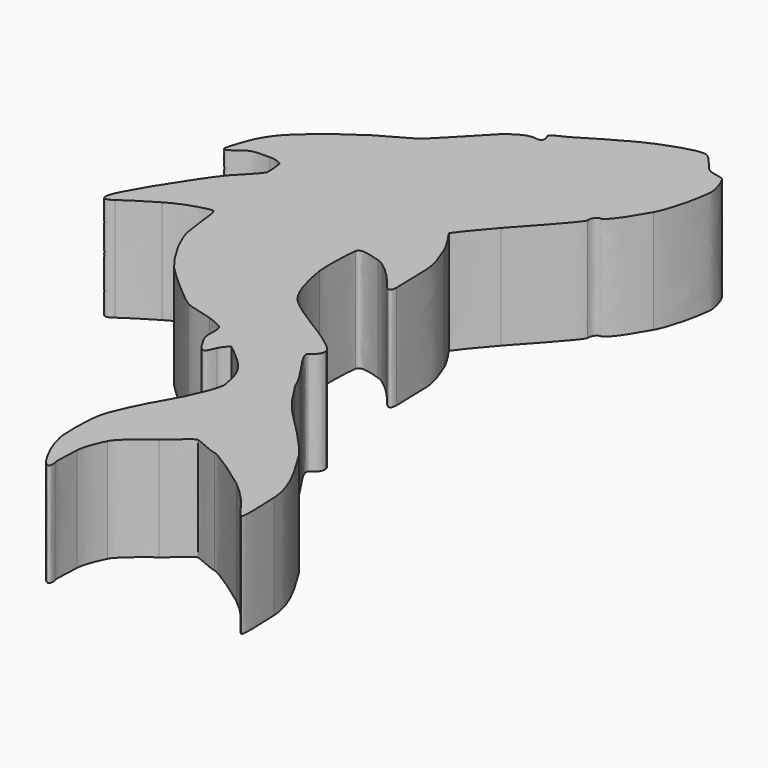
from build123d import *

# Parameters (mm, degrees)
F1_DEPTH = 19.05


with BuildPart() as f1:
    # F0 (on Top) → F1 (new body)
    with BuildSketch(Plane.XY):
        with BuildLine():
            add(Edge.make_bspline(
                [(18.0249788916, -25.616716717), (19.9896770478, -28.85172949), (21.6940117117, -31.1912228411), (23.1379828832, -32.6351981492)],
                knots=[0, 0, 0, 0, 1, 1, 1, 1], degree=3))
            add(Edge.make_bspline(
                [(15.1698617215, -20.6810356724), (15.9484013051, -21.8940572216), (17.5025490131, -24.0530838218), (18.0249788916, -25.616716717)],
                knots=[0, 0, 0, 0, 1, 1, 1, 1], degree=3))
            add(Edge.make_bspline(
                [(13.3497564808, -16.7814365534), (12.7426893356, -17.3013114018), (14.3905968569, -19.4683657328), (15.1698617215, -20.6810356724)],
                knots=[0, 0, 0, 0, 1, 1, 1, 1], degree=3))
            add(Edge.make_bspline(
                [(14.8221832138, -14.6154797961), (14.9097436665, -15.8277884741), (13.9564568488, -16.261561705), (13.3497564808, -16.7814365534)],
                knots=[0, 0, 0, 0, 1, 1, 1, 1], degree=3))
            add(Edge.make_bspline(
                [(10.9233135125, -11.0624616114), (11.6164767597, -11.6691619794), (14.734990917, -13.4028029622), (14.8221832138, -14.6154797961)],
                knots=[0, 0, 0, 0, 1, 1, 1, 1], degree=3))
            add(Edge.make_bspline(
                [(1.825338202, -4.8236118209), (3.9916631153, -7.076760875), (10.2294153322, -10.4557626222), (10.9233135125, -11.0624616114)],
                knots=[0, 0, 0, 0, 1, 1, 1, 1], degree=3))
            add(Edge.make_bspline(
                [(-1.4679259471, 4.2747247512), (-1.2081719114, 2.541813186), (-0.3417161289, -2.5704627668), (1.825338202, -4.8236118209)],
                knots=[0, 0, 0, 0, 1, 1, 1, 1], degree=3))
            add(Edge.make_bspline(
                [(-1.2946347906, 12.4205108175), (-1.5547542245, 11.2071059448), (-1.7280467598, 6.0080058512), (-1.4679259471, 4.2747247512)],
                knots=[0, 0, 0, 0, 1, 1, 1, 1], degree=3))
            add(Edge.make_bspline(
                [(2.9515480203, 12.2468556416), (1.6516802684, 12.5930753141), (-1.0348807549, 13.6331862726), (-1.2946347906, 12.4205108175)],
                knots=[0, 0, 0, 0, 1, 1, 1, 1], degree=3))
            add(Edge.make_bspline(
                [(8.410039509, 7.4815287789), (7.0237088781, 9.3877356372), (4.251048995, 11.9006414846), (2.9515480203, 12.2468556416)],
                knots=[0, 0, 0, 0, 1, 1, 1, 1], degree=3))
            add(Edge.make_bspline(
                [(10.4030705081, 7.2214107239), (10.3162408518, 5.7482545732), (9.7971009365, 5.575328815), (8.410039509, 7.4815287789)],
                knots=[0, 0, 0, 0, 1, 1, 1, 1], degree=3))
            add(Edge.make_bspline(
                [(10.2297779727, 13.6331862726), (10.2297779727, 10.6004055768), (10.4895347661, 8.694204234), (10.4030705081, 7.2214107239)],
                knots=[0, 0, 0, 0, 1, 1, 1, 1], degree=3))
            add(Edge.make_bspline(
                [(8.4100339936, 20.5652048257), (8.9302714825, 19.1788728159), (10.2297779727, 16.6659669685), (10.2297779727, 13.6331862726)],
                knots=[0, 0, 0, 0, 1, 1, 1, 1], degree=3))
            add(Edge.make_bspline(
                [(5.7242023879, 25.0707804105), (5.8974963021, 24.8106623555), (7.8905273012, 21.9515354567), (8.4100339936, 20.5652048257)],
                knots=[0, 0, 0, 0, 1, 1, 1, 1], degree=3))
            add(Edge.make_bspline(
                [(10.4895292506, 31.0502401848), (9.4501463309, 29.8368380698), (5.5509084737, 25.3308984656), (5.7242023879, 25.0707804105)],
                knots=[0, 0, 0, 0, 1, 1, 1, 1], degree=3))
            add(Edge.make_bspline(
                [(18.7214100401, 40.6684529841), (18.8078729193, 39.9752869792), (11.529273432, 32.2632782804), (10.4895292506, 31.0502401848)],
                knots=[0, 0, 0, 0, 1, 1, 1, 1], degree=3))
            add(Edge.make_bspline(
                [(19.9340854952, 42.3145376507), (19.1544593689, 42.3145376507), (18.634947161, 41.361618989), (18.7214100401, 40.6684529841)],
                knots=[0, 0, 0, 0, 1, 1, 1, 1], degree=3))
            add(Edge.make_bspline(
                [(24.5264852208, 48.5533874412), (22.8807659524, 45.5206081242), (20.7140783986, 42.3145376507), (19.9340854952, 42.3145376507)],
                knots=[0, 0, 0, 0, 1, 1, 1, 1], degree=3))
            add(Edge.make_bspline(
                [(27.1254871703, 58.6046454327), (27.1254871703, 57.4780702162), (26.1729352857, 51.5861653793), (24.5264852208, 48.5533874412)],
                knots=[0, 0, 0, 0, 1, 1, 1, 1], degree=3))
            add(Edge.make_bspline(
                [(25.6534216989, 62.8501002047), (26.260122067, 62.4170536337), (27.1254871703, 59.731222028), (27.1254871703, 58.6046454327)],
                knots=[0, 0, 0, 0, 1, 1, 1, 1], degree=3))
            add(Edge.make_bspline(
                [(22.2736974284, 64.1499665777), (23.226617469, 63.1098542404), (25.0467227097, 63.2835107952), (25.6534216989, 62.8501002047)],
                knots=[0, 0, 0, 0, 1, 1, 1, 1], degree=3))
            add(Edge.make_bspline(
                [(19.5006735259, 67.1823818753), (20.5411526404, 66.4892172493), (21.320417505, 65.1897148957), (22.2736974284, 64.1499665777)],
                knots=[0, 0, 0, 0, 1, 1, 1, 1], degree=3))
            add(Edge.make_bspline(
                [(11.5289107915, 65.3630060522), (15.1687586325, 66.8357995623), (18.4616587622, 67.8755465014), (19.5006735259, 67.1823818753)],
                knots=[0, 0, 0, 0, 1, 1, 1, 1], degree=3))
            add(Edge.make_bspline(
                [(0.4382685014, 59.2109831602), (1.5648437179, 59.8173208878), (7.8897923681, 63.8902125421), (11.5289107915, 65.3630060522)],
                knots=[0, 0, 0, 0, 1, 1, 1, 1], degree=3))
            add(Edge.make_bspline(
                [(-2.0742719478, 57.3044150403), (-2.5080493153, 57.9975796664), (-0.6886734922, 58.6042814133), (0.4382685014, 59.2109831602)],
                knots=[0, 0, 0, 0, 1, 1, 1, 1], degree=3))
            add(Edge.make_bspline(
                [(-3.1143842851, 55.9180844093), (-1.7287844507, 55.6579649754), (-1.6412253768, 56.6112504143), (-2.0742719478, 57.3044150403)],
                knots=[0, 0, 0, 0, 1, 1, 1, 1], degree=3))
            add(Edge.make_bspline(
                [(-7.8800751672, 53.6652979958), (-6.3200879815, 55.0516286268), (-4.500348139, 56.1782038432), (-3.1143842851, 55.9180844093)],
                knots=[0, 0, 0, 0, 1, 1, 1, 1], degree=3))
            add(Edge.make_bspline(
                [(-16.3720767695, 45.1736604129), (-14.6387998061, 46.29987161), (-9.4396969547, 52.2793313842), (-7.8800751672, 53.6652979958)],
                knots=[0, 0, 0, 0, 1, 1, 1, 1], degree=3))
            add(Edge.make_bspline(
                [(-22.0042248131, 41.9672245412), (-19.4913175868, 43.5268435709), (-18.1046229364, 44.0474505947), (-16.3720767695, 45.1736604129)],
                knots=[0, 0, 0, 0, 1, 1, 1, 1], degree=3))
            add(Edge.make_bspline(
                [(-32.7486474306, 33.1290060241), (-30.8424433301, 35.7283747507), (-24.5171306605, 40.4076055114), (-22.0042248131, 41.9672245412)],
                knots=[0, 0, 0, 0, 1, 1, 1, 1], degree=3))
            add(Edge.make_bspline(
                [(-35.6945984702, 26.8901562337), (-34.8281426876, 29.4030620811), (-34.6544861329, 30.5296359187), (-32.7486474306, 33.1290060241)],
                knots=[0, 0, 0, 0, 1, 1, 1, 1], degree=3))
            add(Edge.make_bspline(
                [(-33.6151032132, 26.630402198), (-35.0878967233, 25.4173641024), (-36.561419651, 24.3772503862), (-35.6945984702, 26.8901562337)],
                knots=[0, 0, 0, 0, 1, 1, 1, 1], degree=3))
            add(Edge.make_bspline(
                [(-29.1091663667, 27.4972233788), (-30.3222044623, 27.4103951015), (-32.1423097031, 27.8434402936), (-33.6151032132, 26.630402198)],
                knots=[0, 0, 0, 0, 1, 1, 1, 1], degree=3))
            add(Edge.make_bspline(
                [(-26.7695502969, 26.8036933545), (-27.5203568424, 27.3239308435), (-28.300228406, 27.5551079779), (-29.1091663667, 27.4972233788)],
                knots=[0, 0, 0, 0, 1, 1, 1, 1], degree=3))
            add(Edge.make_bspline(
                [(-26.5097948824, 23.7709140375), (-26.452152963, 24.2909102258), (-26.5387385608, 25.3018362051), (-26.7695502969, 26.8036933545)],
                knots=[0, 0, 0, 0, 1, 1, 1, 1], degree=3))
            add(Edge.make_bspline(
                [(-30.1500067428, 19.5247312267), (-28.4167297794, 21.430569929), (-26.5966245387, 22.9912865324), (-26.5097948824, 23.7709140375)],
                knots=[0, 0, 0, 0, 1, 1, 1, 1], degree=3))
            add(Edge.make_bspline(
                [(-39.0746895179, 5.747530671), (-37.0820211594, 9.6467685283), (-31.8832837062, 17.6185312628), (-30.1500067428, 19.5247312267)],
                knots=[0, 0, 0, 0, 1, 1, 1, 1], degree=3))
            add(Edge.make_bspline(
                [(-38.2082323564, 3.2346248236), (-39.1615164164, 2.4546319202), (-41.0673564975, 1.8482928138), (-39.0746895179, 5.747530671)],
                knots=[0, 0, 0, 0, 1, 1, 1, 1], degree=3))
            add(Edge.make_bspline(
                [(-32.4896200549, 6.8741058875), (-35.0021618829, 5.3141187018), (-37.2549482965, 4.0142509499), (-38.2082323564, 3.2346248236)],
                knots=[0, 0, 0, 0, 1, 1, 1, 1], degree=3))
            add(Edge.make_bspline(
                [(-25.1245590674, 9.4734746141), (-25.8177250723, 9.6467685283), (-29.9767142075, 8.4333622767), (-32.4896200549, 6.8741058875)],
                knots=[0, 0, 0, 0, 1, 1, 1, 1], degree=3))
            add(Edge.make_bspline(
                [(-23.8246926944, 2.1084122477), (-24.5174919222, 5.6610677919), (-24.4313930624, 9.2998194382), (-25.1245590674, 9.4734746141)],
                knots=[0, 0, 0, 0, 1, 1, 1, 1], degree=3))
            add(Edge.make_bspline(
                [(-18.4519332882, -7.8567496418), (-19.7521636806, -6.3832253352), (-23.1315266895, -1.4442446754), (-23.8246926944, 2.1084122477)],
                knots=[0, 0, 0, 0, 1, 1, 1, 1], degree=3))
            add(Edge.make_bspline(
                [(-9.8738328262, -15.3079081102), (-11.2601634572, -14.5282819839), (-17.1524323135, -9.3302725696), (-18.4519332882, -7.8567496418)],
                knots=[0, 0, 0, 0, 1, 1, 1, 1], degree=3))
            add(Edge.make_bspline(
                [(-4.7619222716, -16.86752714), (-6.5812980947, -16.2615561896), (-8.4875008164, -16.0879010137), (-9.8738328262, -15.3079081102)],
                knots=[0, 0, 0, 0, 1, 1, 1, 1], degree=3))
            add(Edge.make_bspline(
                [(-1.9024341111, -18.1662986971), (-2.1621881468, -17.9926435212), (-2.9425464485, -17.4742261292), (-4.7619222716, -16.86752714)],
                knots=[0, 0, 0, 0, 1, 1, 1, 1], degree=3))
            add(Edge.make_bspline(
                [(-1.5562171964, -20.5920122477), (-1.4693902978, -19.4661664489), (-1.6423160561, -18.3395926113), (-1.9024341111, -18.1662986971)],
                knots=[0, 0, 0, 0, 1, 1, 1, 1], degree=3))
            add(Edge.make_bspline(
                [(-0.0826942686, -24.491250105), (-1.3825620204, -22.5846819851), (-1.6426800755, -21.717495406), (-1.5562171964, -20.5920122477)],
                knots=[0, 0, 0, 0, 1, 1, 1, 1], degree=3))
            add(Edge.make_bspline(
                [(1.9964355902, -23.5383300645), (1.5630236209, -24.4051484876), (1.2168067061, -26.3974555844), (-0.0826942686, -24.491250105)],
                knots=[0, 0, 0, 0, 1, 1, 1, 1], degree=3))
            add(Edge.make_bspline(
                [(3.2966687403, -21.8915187379), (2.7187879531, -22.4115135473), (2.2853773626, -22.9604506561), (1.9964355902, -23.5383300645)],
                knots=[0, 0, 0, 0, 1, 1, 1, 1], degree=3))
            add(Edge.make_bspline(
                [(6.6760303703, -24.7510055195), (4.8852328273, -23.1338631524), (3.7587789506, -22.1807004323), (3.2966687403, -21.8915187379)],
                knots=[0, 0, 0, 0, 1, 1, 1, 1], degree=3))
            add(Edge.make_bspline(
                [(9.9682010824, -31.6830240726), (9.7088110661, -29.9504792846), (9.3615007143, -27.1767259645), (6.6760303703, -24.7510055195)],
                knots=[0, 0, 0, 0, 1, 1, 1, 1], degree=3))
            add(Edge.make_bspline(
                [(6.3290812801, -40.7809938676), (7.3691936175, -39.1349119587), (10.2283191374, -33.4155702395), (9.9682010824, -31.6830240726)],
                knots=[0, 0, 0, 0, 1, 1, 1, 1], degree=3))
            add(Edge.make_bspline(
                [(2.2558269853, -49.1843429589), (3.1226481661, -46.6714371115), (5.2893370988, -42.4274439325), (6.3290812801, -40.7809938676)],
                knots=[0, 0, 0, 0, 1, 1, 1, 1], degree=3))
            add(Edge.make_bspline(
                [(1.6494892577, -58.4563402224), (1.4754700624, -56.2031911683), (1.3893712027, -51.6968806504), (2.2558269853, -49.1843429589)],
                knots=[0, 0, 0, 0, 1, 1, 1, 1], degree=3))
            add(Edge.make_bspline(
                [(4.6826353518, -66.1676181247), (3.3824022017, -64.3482423016), (1.822783172, -60.7094906553), (1.6494892577, -58.4563402224)],
                knots=[0, 0, 0, 0, 1, 1, 1, 1], degree=3))
            add(Edge.make_bspline(
                [(6.0682338074, -65.8210302962), (6.3287200185, -66.9479667744), (5.9821390843, -67.9880846271), (4.6826353518, -66.1676181247)],
                knots=[0, 0, 0, 0, 1, 1, 1, 1], degree=3))
            add(Edge.make_bspline(
                [(6.1550648426, -60.9692364178), (6.0678725458, -62.8758100531), (5.8088451701, -64.6948177203), (6.0682338074, -65.8210302962)],
                knots=[0, 0, 0, 0, 1, 1, 1, 1], degree=3))
            add(Edge.make_bspline(
                [(7.8015149074, -55.9441582771), (7.281640059, -57.1564669551), (6.2418944988, -59.0626738133), (6.1550648426, -60.9692364178)],
                knots=[0, 0, 0, 0, 1, 1, 1, 1], degree=3))
            add(Edge.make_bspline(
                [(13.2607385716, -51.0051776174), (12.393914633, -51.5250469503), (8.3213897558, -54.7314828221), (7.8015149074, -55.9441582771)],
                knots=[0, 0, 0, 0, 1, 1, 1, 1], degree=3))
            add(Edge.make_bspline(
                [(17.6791218596, -47.5389835734), (16.9859586124, -47.4525206943), (14.1268330925, -50.4849401284), (13.2607385716, -51.0051776174)],
                knots=[0, 0, 0, 0, 1, 1, 1, 1], degree=3))
            add(Edge.make_bspline(
                [(22.0114035302, -49.1850668611), (20.8851895754, -49.0117729469), (18.3730131456, -47.6265385107), (17.6791218596, -47.5389835734)],
                knots=[0, 0, 0, 0, 1, 1, 1, 1], degree=3))
            add(Edge.make_bspline(
                [(30.4165768551, -54.6442850098), (28.5972024108, -53.2572235824), (23.1383455238, -49.3590832987), (22.0114035302, -49.1850668611)],
                knots=[0, 0, 0, 0, 1, 1, 1, 1], degree=3))
            add(Edge.make_bspline(
                [(35.1819037178, -59.4971709465), (34.6620288694, -58.7164431099), (32.2363153187, -56.0309782814), (30.4165768551, -54.6442850098)],
                knots=[0, 0, 0, 0, 1, 1, 1, 1], degree=3))
            add(Edge.make_bspline(
                [(37.3482286311, -62.1830025522), (37.001646318, -62.0961728959), (35.7017785662, -60.2757050146), (35.1819037178, -59.4971709465)],
                knots=[0, 0, 0, 0, 1, 1, 1, 1], degree=3))
            add(Edge.make_bspline(
                [(37.4350582873, -54.730747889), (37.6948150807, -59.5828988925), (37.6948150807, -62.2690986542), (37.3482286311, -62.1830025522)],
                knots=[0, 0, 0, 0, 1, 1, 1, 1], degree=3))
            add(Edge.make_bspline(
                [(32.3227837133, -42.7732844181), (33.622284688, -45.112173828), (37.1749402323, -49.8782287295), (37.4350582873, -54.730747889)],
                knots=[0, 0, 0, 0, 1, 1, 1, 1], degree=3))
            add(Edge.make_bspline(
                [(23.1379828832, -32.6351981492), (25.3035783788, -34.8015161682), (31.0221920592, -40.434039262), (32.3227837133, -42.7732844181)],
                knots=[0, 0, 0, 0, 1, 1, 1, 1], degree=3))
        make_face()
    extrude(amount=F1_DEPTH)


solid = f1.part
